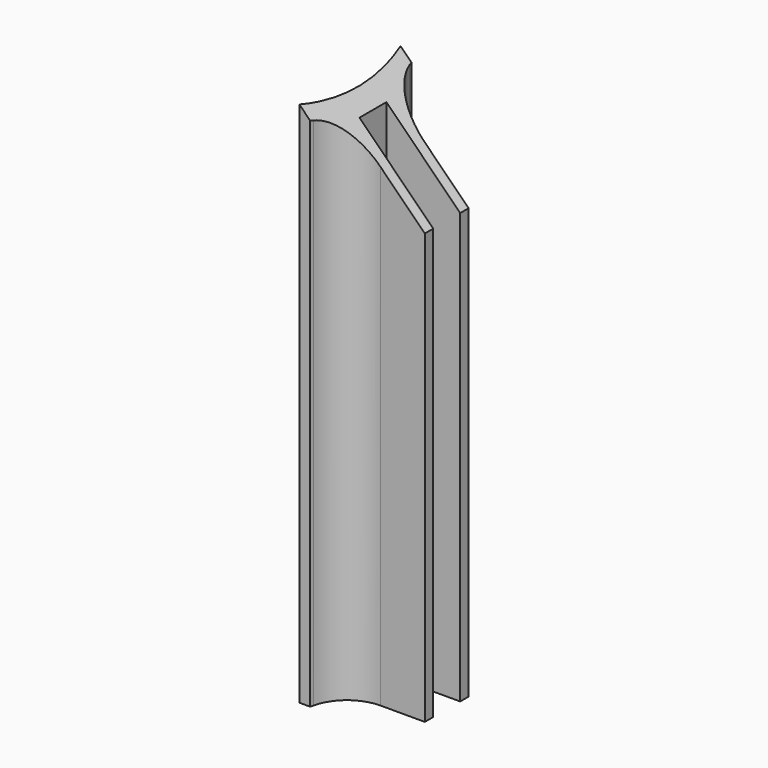
from build123d import *

# Parameters (mm, degrees)
PAD001_DEPTH      = 50
FILLET_R          = 4
POCKET_DEPTH      = 8.601
POCKET_DEPTH_BACK = 3.401


with BuildPart() as part:
    # Sketch002 → Pad001 (new body)
    with BuildSketch(Plane.XY):
        with BuildLine():
            ThreePointArc((24.269322199, -6), (25, 0), (24.269322199, 6))
            Line((24.269322199, 6), (25.2982212813, 6))
            ThreePointArc((25.8696733648, 2.6), (25.6403658443, 4.3094824946), (25.2982212813, 6))
            Line((25.8696733648, 2.6), (33.4516540126, 2.6))
            Line((33.4516540126, 2.6), (33.4516540126, 1.6))
            Line((33.4516540126, 1.6), (26.4516540126, 1.6))
            Line((26.4516540126, 1.6), (26.4516540126, -1.6))
            Line((26.4516540126, -1.6), (33.4516540126, -1.6))
            Line((33.4516540126, -1.6), (33.4516540126, -2.6))
            Line((33.4516540126, -2.6), (25.8696733648, -2.6))
            ThreePointArc((25.2982212813, -6), (25.6403658443, -4.3094824946), (25.8696733648, -2.6))
            Line((24.269322199, -6), (25.2982212813, -6))
        make_face()
    extrude(amount=PAD001_DEPTH)

    # Fillet
    fillet_edges = [part.edges().sort_by_distance(p)[0] for p in [
        (25.869673, -2.6, 25),
        (25.869673, 2.6, 25),
    ]]
    fillet(fillet_edges, radius=FILLET_R)

    # Sketch003 (on Face15 of Fillet) → Pocket (cut, two sides)
    with BuildSketch(Plane.XZ.offset(2.6)) as pocket_sk:
        Polygon((33.4516540126, 50), (33.4516540126, 40.8176681865), (24.269322199, 50), align=None)
    extrude(amount=-POCKET_DEPTH, mode=Mode.SUBTRACT)
    extrude(pocket_sk.sketch, amount=POCKET_DEPTH_BACK, mode=Mode.SUBTRACT)


solid = part.part
